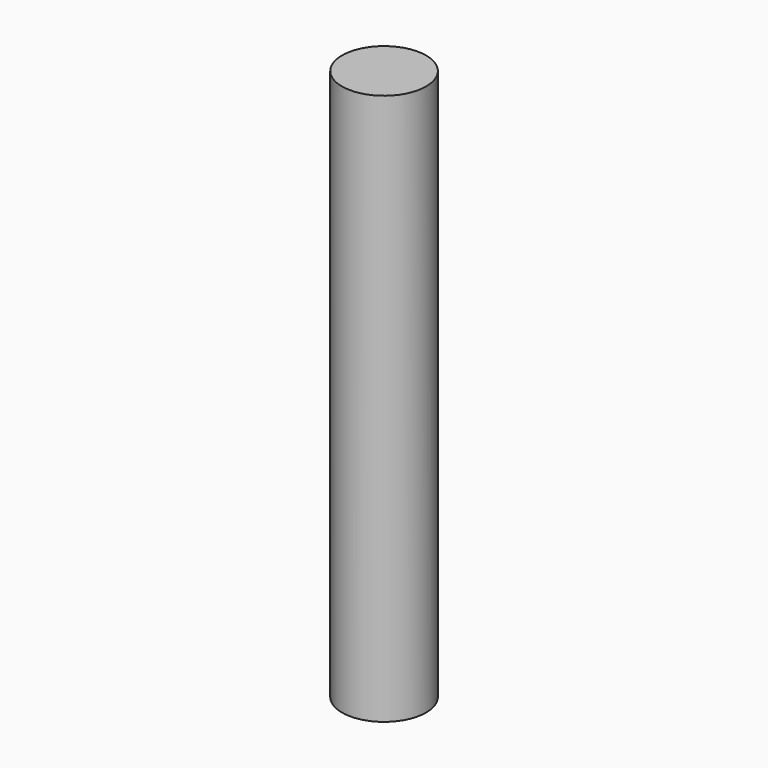
from build123d import *

# Parameters (mm, degrees)
SKETCH_R  = 3.05
PAD_DEPTH = 40


with BuildPart() as part:
    # Sketch → Pad (new body)
    with BuildSketch(Plane.XY):
        Circle(SKETCH_R)
    extrude(amount=PAD_DEPTH)


solid = part.part
